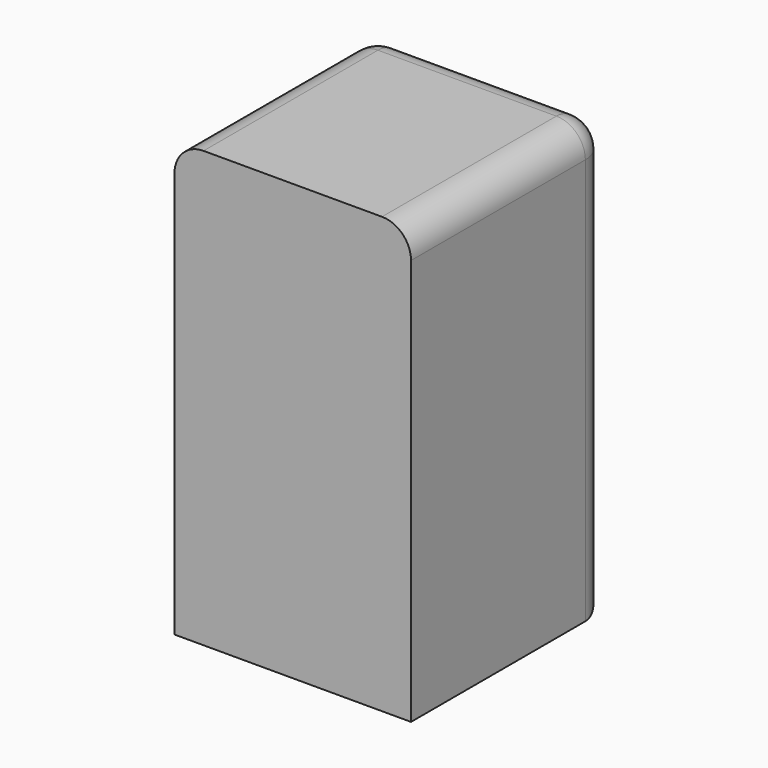
from build123d import *

# Parameters (mm, degrees)
F0_W     = 41.399673
F0_H     = 43.229849
F1_DEPTH = 76.2
F2_R     = 5.08


with BuildPart() as f1:
    # F0 (on Top) → F1 (new body)
    with BuildSketch(Plane.XY):
        with Locations((20.699836, 35.262763)):
            Rectangle(F0_W, F0_H)
    extrude(amount=F1_DEPTH)

    # F2
    f2_edges = [f1.edges().sort_by_distance(p)[0] for p in [
        (41.399673, 56.877688, 38.1),
        (0, 56.877688, 38.1),
        (20.699836, 56.877688, 0),
        (20.699836, 56.877688, 76.2),
        (41.399673, 35.262764, 76.2),
        (0, 35.262764, 76.2),
    ]]
    fillet(f2_edges, radius=F2_R)


solid = f1.part
